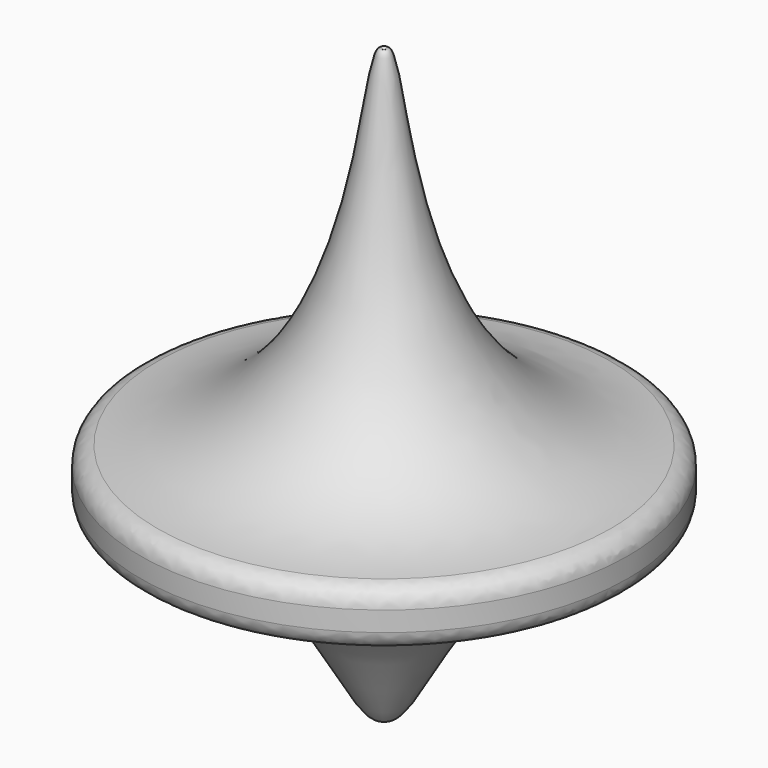
from build123d import *

# Parameters (mm, degrees)
F2_R = 1


with BuildPart() as f1:
    # F0 (on Front) → F1 (revolve)
    with BuildSketch(Plane.XZ):
        with BuildLine():
            Line((13.130509, -3), (13.130509, 0))
            add(Edge.make_bspline(
                [(0, 18.737588), (1.426619, 20.563511), (0, 0), (13.130509, 0)],
                knots=[0, 0, 0, 0, 22.880286, 22.880286, 22.880286, 22.880286], degree=3))
            Line((0, 18.737588), (0, -12.884821))
            add(Edge.make_bspline(
                [(13.130509, -3), (3.087491, -2.966017), (1.986283, -13.654214), (0, -12.884821)],
                knots=[0, 0, 0, 0, 16.435326, 16.435326, 16.435326, 16.435326], degree=3))
        make_face()
    revolve(axis=Axis((0, 0, 2.926384), (0, 0, -1)))

    # F2
    f2_edges = [f1.edges().sort_by_distance(p)[0] for p in [
        (-13.130509, 0, 0),
        (-13.130509, 0, -3),
    ]]
    fillet(f2_edges, radius=F2_R)


solid = f1.part
